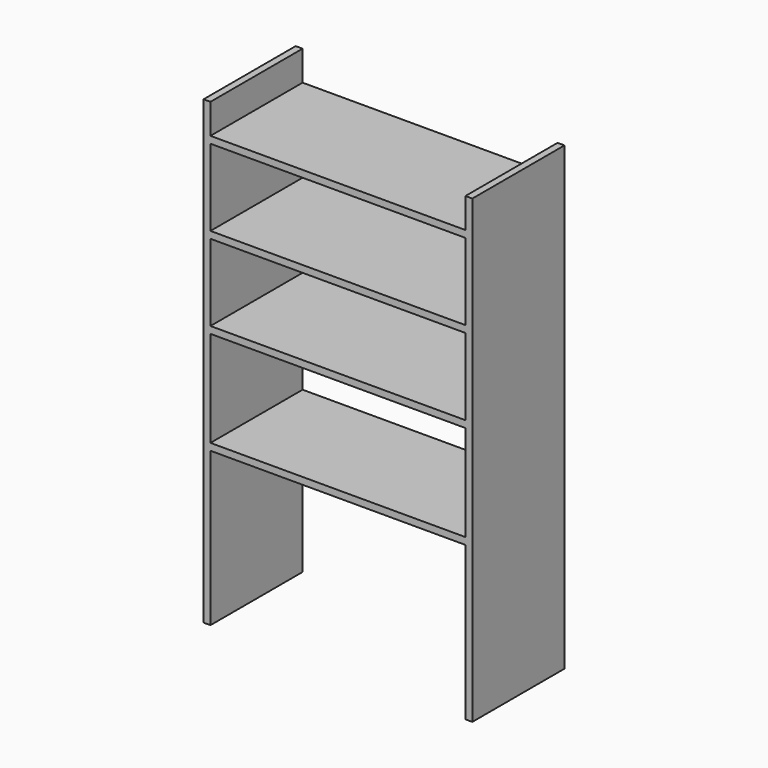
from build123d import *

# Parameters (mm, degrees)
F0_W     = 664
F0_H     = 250
F0_H_2   = 200
F1_DEPTH = 300


with BuildPart() as f1:
    # F0 (on Front) → F1 (new body)
    with BuildSketch(Plane.XZ):
        Polygon((0, 1200), (0, 0), (18, 0), (18, 400), (682, 400), (682, 0), (700, 0), (700, 1200), (682, 1200), (682, 1182), (682, 1122), (18, 1122), (18, 1182), (18, 1200), align=None)
        with Locations((350, 543)):
            Rectangle(F0_W, F0_H, mode=Mode.SUBTRACT)
        with Locations((350, 786)):
            Rectangle(F0_W, F0_H_2, mode=Mode.SUBTRACT)
        with Locations((350, 1004)):
            Rectangle(F0_W, F0_H_2, mode=Mode.SUBTRACT)
    extrude(amount=F1_DEPTH)


solid = f1.part
